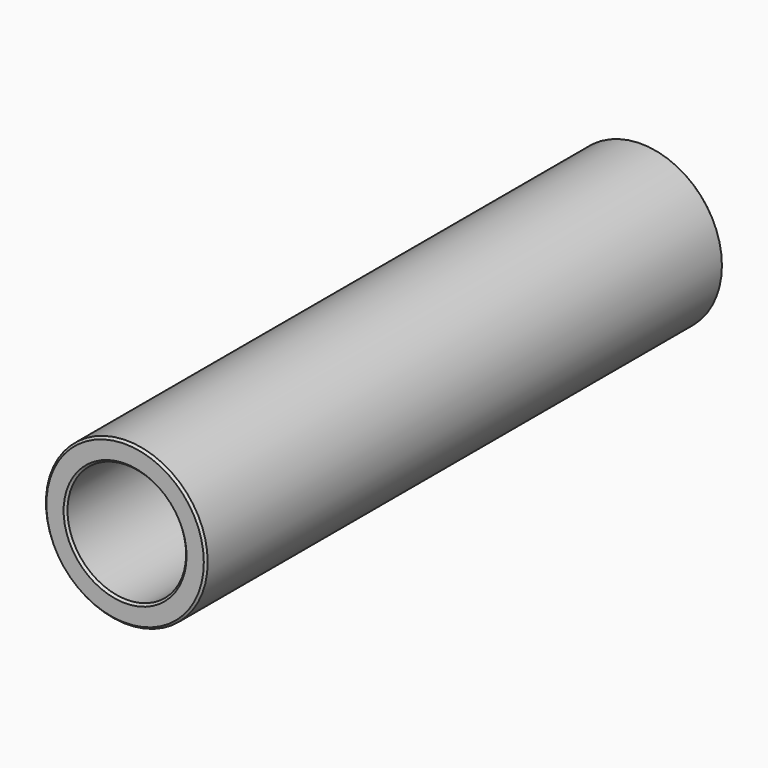
from build123d import *

# Parameters (mm, degrees)
F0_R     = 7.5
F0_R_2   = 5.5
F1_DEPTH = 60
F0_R_3   = 4.1
F2_DEPTH = 5
F3_SIZE  = 0.2


with BuildPart() as f1:
    # F0 (on Front) → F1 (new body)
    with BuildSketch(Plane.XZ):
        Circle(F0_R)
        Circle(F0_R_2, mode=Mode.SUBTRACT)
    extrude(amount=F1_DEPTH)

    # F0 (on Front) → F2 (join)
    with BuildSketch(Plane.XZ):
        Circle(F0_R_2)
        Circle(F0_R_3, mode=Mode.SUBTRACT)
    extrude(amount=F2_DEPTH)

    # F3
    f3_edges = [f1.edges().sort_by_distance(p)[0] for p in [
        (-7.5, 0, 0),
        (-4.1, 0, 0),
        (-7.5, -60, 0),
        (-5.5, -60, 0),
    ]]
    chamfer(f3_edges, length=F3_SIZE)


solid = f1.part
